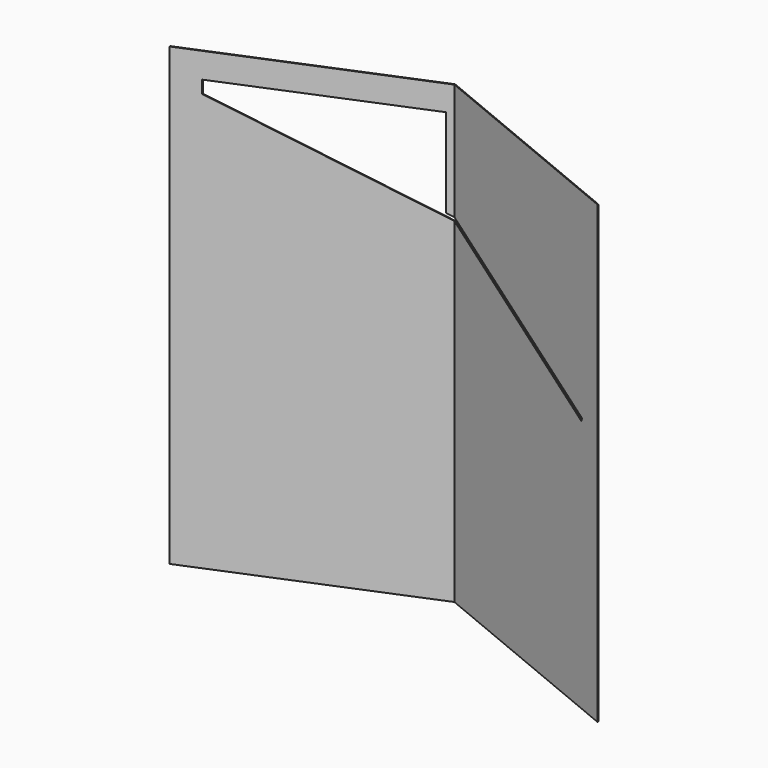
from build123d import *

# Parameters (mm, degrees)
F1_DEPTH = 914.4
F4_DEPTH = 178.052639


with BuildPart() as f1:
    # F0 (on Top) → F1 (new body)
    with BuildSketch(Plane.XY):
        Polygon((-0.60751, 1.466659), (0, 0), (429.247171, 177.8), (858.494343, 0), (859.101853, 1.466659), (429.247171, 179.518298), align=None)
    extrude(amount=-F1_DEPTH)

    # F3 (on face) → F4 (cut, through all)
    with BuildSketch(Plane(origin=(0, 1.466659, 0), x_dir=(-1, 0, 0), z_dir=(0, 1, 0))):
        Polygon((-810.162893, -406.4), (-48.93896, -76.2), (-48.93896, -50.8), (-416.229916, -50.8), (-416.229916, -228.6), (-812.689867, -400.574461), align=None)
    extrude(amount=F4_DEPTH, mode=Mode.SUBTRACT)


solid = f1.part
